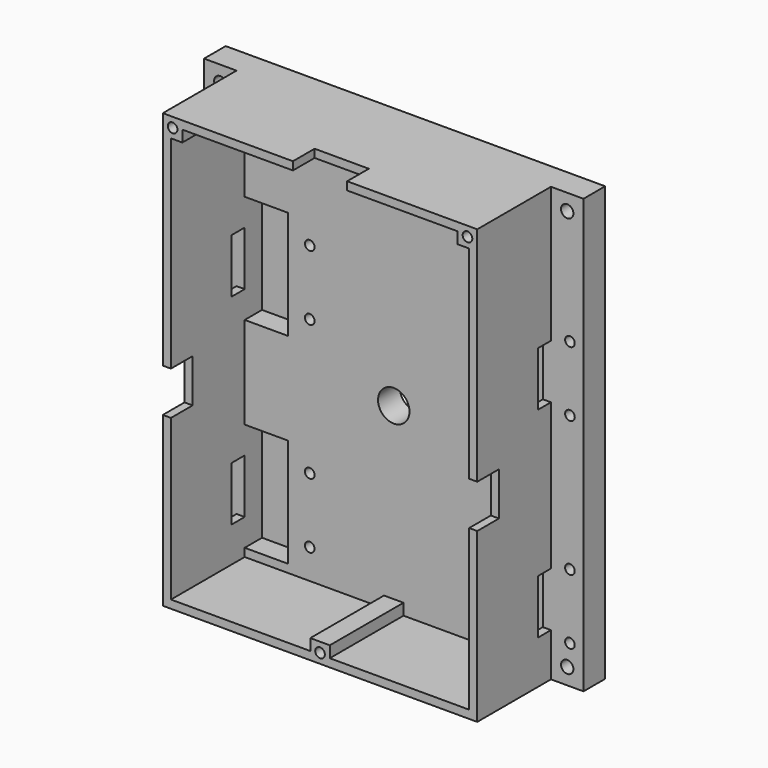
from build123d import *

# Parameters (mm, degrees)
F1_W      = 70
F1_H      = 80
F4_DEPTH  = 5
F5_W      = 55
F5_H      = 77
F7_DEPTH  = 22
F6_W      = 3.6
F6_H      = 3.6
F8_DEPTH  = 22
F3_R      = 0.889
F3_R_2    = 1.143
F3_R_3    = 2.9
F9_DEPTH  = 22.001
F10_W     = 4
F10_H     = 10
F11_DEPTH = 3
F12_W     = 10
F12_H     = 4
F12_W_2   = 4
F12_H_2   = 8
F13_DEPTH = 5
F14_W     = 8
F14_H     = 20
F15_DEPTH = 4


with BuildPart() as f4:
    # F1 (on Front) → F4 (new body)
    with BuildSketch(Plane.XZ):
        with Locations((6.625, 7.5)):
            Rectangle(F1_W, F1_H)
    extrude(amount=F4_DEPTH)

    # F5 (on Front) → F7 (join)
    with BuildSketch(Plane.XZ):
        Polygon((35.625, 47.5), (-22.375, 47.5), (-22.375, -32.5), (35.625, -32.5), (35.625, -29.5), align=None)
        with Locations((6.625, 7.5)):
            Rectangle(F5_W, F5_H, mode=Mode.SUBTRACT)
    extrude(amount=F7_DEPTH)

    # F6 (on Front) → F8 (join)
    with BuildSketch(Plane.XZ):
        with Locations((-20.575, 45.7)):
            Rectangle(F6_W, F6_H)
        with Locations((33.825, 45.7)):
            Rectangle(F6_W, F6_H)
        Polygon((8.425, -32.5), (8.425, -28.9), (4.825, -28.9), (4.825, -30.7), (4.825, -32.5), align=None)
    extrude(amount=F8_DEPTH)

    # F3 (on Front) → F9 (cut, through all)
    with BuildSketch(Plane.XZ):
        with Locations((-25.875, 23.5)):
            Circle(F3_R)
        with Locations((-25.875, 11.5)):
            Circle(F3_R)
        with Locations((-8.875, 23.5)):
            Circle(F3_R)
        with Locations((-8.875, 11.5)):
            Circle(F3_R)
        with Locations((-8.875, -13.5)):
            Circle(F3_R)
        with Locations((-25.875, -13.5)):
            Circle(F3_R)
        with Locations((-25.875, -25.5)):
            Circle(F3_R)
        with Locations((-8.875, -25.5)):
            Circle(F3_R)
        with Locations((6.625, -30.7)):
            Circle(F3_R)
        with Locations((-25.375, -29.5)):
            Circle(F3_R_2)
        with Locations((6.625, 2.5)):
            Circle(F3_R_3)
        with Locations((-25.375, 44.5)):
            Circle(F3_R_2)
        with Locations((22.125, 23.5)):
            Circle(F3_R)
        with Locations((22.125, 11.5)):
            Circle(F3_R)
        with Locations((39.125, 23.5)):
            Circle(F3_R)
        with Locations((38.625, 44.5)):
            Circle(F3_R_2)
        with Locations((22.125, -13.5)):
            Circle(F3_R)
        with Locations((22.125, -25.5)):
            Circle(F3_R)
        with Locations((39.125, -13.5)):
            Circle(F3_R)
        with Locations((39.125, -25.5)):
            Circle(F3_R)
        with Locations((38.625, -29.5)):
            Circle(F3_R_2)
        with Locations((39.125, 11.5)):
            Circle(F3_R)
        with Locations((-20.575, 45.7)):
            Circle(F3_R)
        with Locations((33.825, 45.7)):
            Circle(F3_R)
    extrude(amount=F9_DEPTH, mode=Mode.SUBTRACT)

    # F10 (on face) → F11 (cut)
    with BuildSketch(Plane.XZ.offset(5)):
        with Locations((-21.875, 17.5)):
            Rectangle(F10_W, F10_H)
        with Locations((-21.875, -19.5)):
            Rectangle(F10_W, F10_H)
        with Locations((35.125, -19.5)):
            Rectangle(F10_W, F10_H)
        with Locations((35.125, 17.5)):
            Rectangle(F10_W, F10_H)
    extrude(amount=F11_DEPTH, mode=Mode.SUBTRACT)

    # F12 (on face) → F13 (cut)
    with BuildSketch(Plane.XZ.offset(22)):
        with Locations((6.625, 45.5)):
            Rectangle(F12_W, F12_H)
        with Locations((33.625, 2.5)):
            Rectangle(F12_W_2, F12_H_2)
        with Locations((-20.375, 2.5)):
            Rectangle(F12_W_2, F12_H_2)
    extrude(amount=-F13_DEPTH, mode=Mode.SUBTRACT)

    # F14 (on face) → F15 (cut)
    with BuildSketch(Plane.XZ.offset(5)):
        Polygon((-20.875, 17.5), (-20.875, 7.5), (-12.875, 7.5), (-12.875, 27.5), (-20.875, 27.5), align=None)
        with Locations((-16.875, -19.5)):
            Rectangle(F14_W, F14_H)
        Polygon((34.125, 17.5), (34.125, 27.5), (26.125, 27.5), (26.125, 7.5), (34.125, 7.5), align=None)
        with Locations((30.125, -19.5)):
            Rectangle(F14_W, F14_H)
    extrude(amount=-F15_DEPTH, mode=Mode.SUBTRACT)


solid = f4.part
